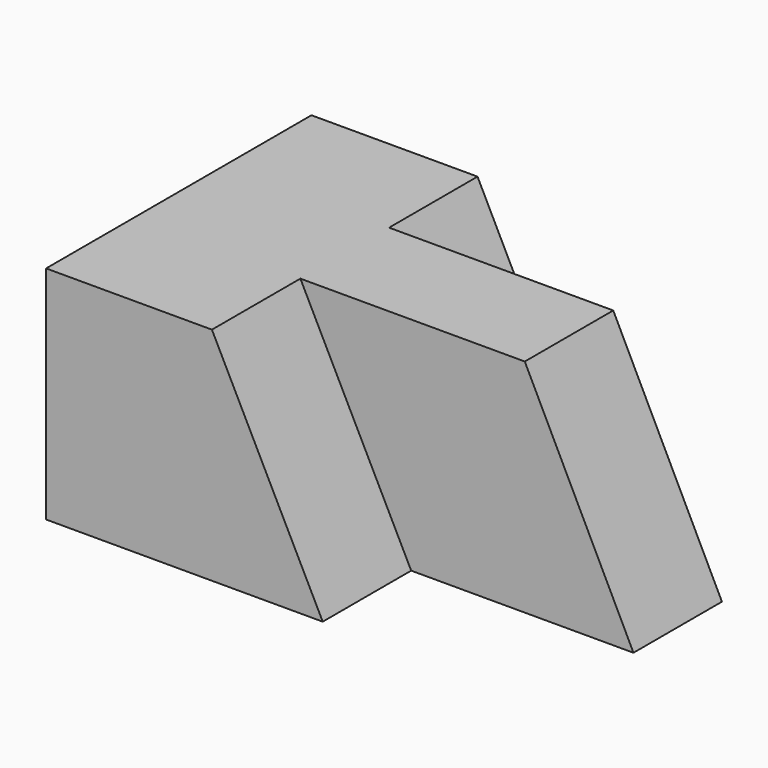
from build123d import *

# Parameters (mm, degrees)
F0_W     = 57.3121234775
F0_H     = 25.3932457417
F1_DEPTH = 38.1
F3_DEPTH = 12.7
F5_DEPTH = 12.7
F7_DEPTH = 12.7


with BuildPart() as f1:
    # F0 (on Front) → F1 (new body)
    with BuildSketch(Plane.XZ):
        with Locations((26.2444131076, 12.6966228709)):
            Rectangle(F0_W, F0_H)
    extrude(amount=F1_DEPTH)

    # F2 (on face) → F3 (cut)
    with BuildSketch(Plane.XZ.offset(38.1)):
        Polygon((54.9004748464, 25.3932457417), (16.6383513689, 25.3932457417), (29.3653700501, 0), (54.9004748464, 0), align=None)
    extrude(amount=-F3_DEPTH, mode=Mode.SUBTRACT)

    # F4 (on face) → F5 (cut)
    with BuildSketch(Plane.XZ.offset(25.4)):
        Polygon((54.9004748464, 0), (54.9004748464, 25.3932457417), (42.4166470766, 25.3932457417), align=None)
    extrude(amount=-F5_DEPTH, mode=Mode.SUBTRACT)

    # F6 (on face) → F7 (cut)
    with BuildSketch(Plane(origin=(0, 0, 0), x_dir=(-1, 0, 0), z_dir=(0, 1, 0))):
        Polygon((-29.3199047446, 0), (-16.6687499732, 25.3932457417), (-54.9004748464, 25.3932457417), (-54.9004748464, 0), (-42.1420186758, 0), align=None)
    extrude(amount=-F7_DEPTH, mode=Mode.SUBTRACT)


solid = f1.part
